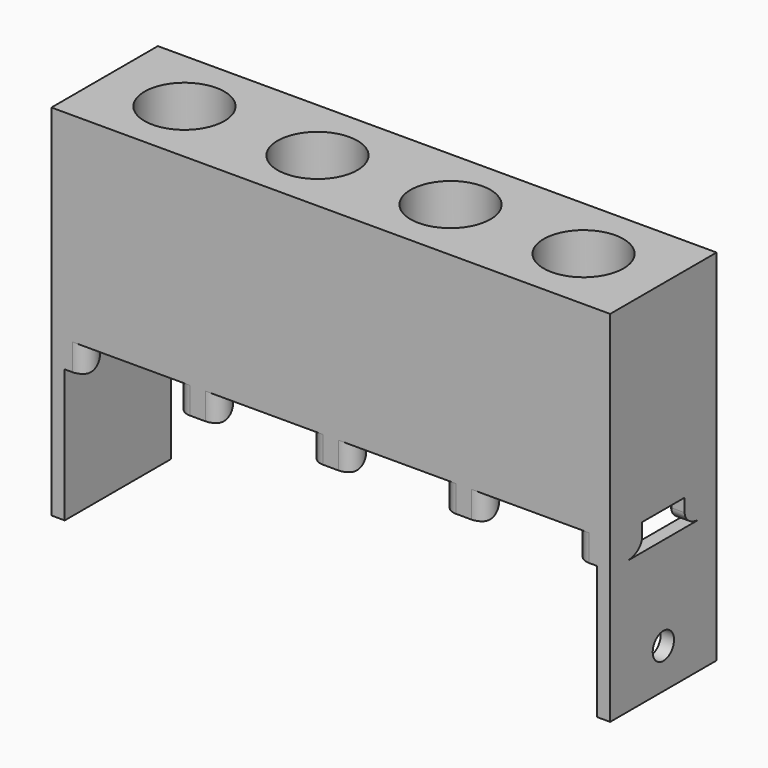
from build123d import *

# Parameters (mm, degrees)
F0_W      = 508
F0_H      = 127
F0_R      = 38.1
F1_DEPTH  = 190.5
F3_DEPTH  = 25.4
F4_R      = 12.7
F5_W      = 127
F5_H      = 127
F6_DEPTH  = 12.7
F7_W      = 127
F7_H      = 127
F8_DEPTH  = 12.7
F9_R      = 12.7
F10_DEPTH = 25.4


with BuildPart() as f1:
    # F0 (on Top) → F1 (new body)
    with BuildSketch(Plane.XY):
        with Locations((254, 63.5)):
            Rectangle(F0_W, F0_H)
        with Locations((63.5, 63.5)):
            Circle(F0_R, mode=Mode.SUBTRACT)
        with Locations((190.5, 63.5)):
            Circle(F0_R, mode=Mode.SUBTRACT)
        with Locations((317.5, 63.5)):
            Circle(F0_R, mode=Mode.SUBTRACT)
        with Locations((444.5, 63.5)):
            Circle(F0_R, mode=Mode.SUBTRACT)
    extrude(amount=-F1_DEPTH)

    # F2 (on face) → F3 (join)
    with BuildSketch(Plane(origin=(0, 0, -190.5), x_dir=(1, 0, 0), z_dir=(0, 0, -1))):
        Polygon((254, 0), (215.9, 0), (254, -38.1), align=None)
        Polygon((254, 0), (254, -38.1), (292.1, 0), align=None)
        Polygon((254, -127), (254, -88.9), (215.9, -127), align=None)
        Polygon((292.1, -127), (254, -88.9), (254, -127), align=None)
        Polygon((127, 0), (127, -38.1), (165.1, 0), align=None)
        Polygon((127, 0), (88.9, 0), (127, -38.1), align=None)
        Polygon((127, -88.9), (88.9, -127), (127, -127), align=None)
        Polygon((165.1, -127), (127, -88.9), (127, -127), align=None)
        Polygon((0, -38.1), (38.1, 0), (0, 0), align=None)
        Polygon((38.1, -127), (0, -88.9), (0, -127), align=None)
        Polygon((381, 0), (342.9, 0), (381, -38.1), align=None)
        Polygon((381, 0), (381, -38.1), (419.1, 0), align=None)
        Polygon((508, 0), (469.9, 0), (508, -38.1), align=None)
        Polygon((508, -88.9), (469.9, -127), (508, -127), align=None)
        Polygon((381, -88.9), (342.9, -127), (381, -127), align=None)
        Polygon((419.1, -127), (381, -88.9), (381, -127), align=None)
    extrude(amount=F3_DEPTH)

    # F4
    f4_edges = [f1.edges().sort_by_distance(p)[0] for p in [
        (400.05, 19.05, -215.9),
        (361.95, 19.05, -215.9),
        (488.95, 19.05, -215.9),
        (488.95, 107.95, -215.9),
        (400.05, 107.95, -215.9),
        (361.95, 107.95, -215.9),
        (273.05, 19.05, -215.9),
        (273.05, 107.95, -215.9),
        (234.95, 107.95, -215.9),
        (234.95, 19.05, -215.9),
        (146.05, 19.05, -215.9),
        (107.95, 19.05, -215.9),
        (107.95, 107.95, -215.9),
        (146.05, 107.95, -215.9),
        (19.05, 19.05, -215.9),
        (19.05, 107.95, -215.9),
        (292.1, 0, -203.2),
        (215.9, 0, -203.2),
        (292.1, 127, -203.2),
        (215.9, 127, -203.2),
        (342.9, 127, -203.2),
        (419.1, 127, -203.2),
        (469.9, 127, -203.2),
        (469.9, 0, -203.2),
        (419.1, 0, -203.2),
        (342.9, 0, -203.2),
        (88.9, 0, -203.2),
        (165.1, 0, -203.2),
        (88.9, 127, -203.2),
        (165.1, 127, -203.2),
        (38.1, 127, -203.2),
        (38.1, 0, -203.2),
    ]]
    fillet(f4_edges, radius=F4_R)

    # F5 (on face) → F6 (join)
    with BuildSketch(Plane.YZ.offset(508)):
        with Locations((63.5, -279.4)):
            Rectangle(F5_W, F5_H)
        with BuildLine():
            Line((106.8605122421, -215.9), (127, -215.9))
            Line((127, -215.9), (127, 0))
            Line((127, 0), (0, 0))
            Line((0, 0), (0, -215.9))
            Line((0, -215.9), (20.1394877579, -215.9))
            add(Edge.make_bspline(
                [(20.1394877579, -215.9), (38.1, -215.9), (38.1, -203.2)],
                knots=[4.7123889804, 4.7123889804, 4.7123889804, 6.2831853072, 6.2831853072, 6.2831853072], degree=2, weights=[1, 0.7071067812, 1]))
            Line((38.1, -203.2), (38.1, -190.5))
            Line((38.1, -190.5), (88.9, -190.5))
            Line((88.9, -190.5), (88.9, -203.2))
            add(Edge.make_bspline(
                [(88.9, -203.2), (88.9, -215.9), (106.8605122421, -215.9)],
                knots=[3.1415926536, 3.1415926536, 3.1415926536, 4.7123889804, 4.7123889804, 4.7123889804], degree=2, weights=[1, 0.7071067812, 1]))
        make_face()
    extrude(amount=F6_DEPTH)

    # F7 (on face) → F8 (join)
    with BuildSketch(Plane(origin=(0, 0, 0), x_dir=(0, -1, 0), z_dir=(-1, 0, 0))):
        with Locations((-63.5, -279.4)):
            Rectangle(F7_W, F7_H)
        with BuildLine():
            Line((-20.1394877579, -215.9), (0, -215.9))
            Line((0, -215.9), (0, 0))
            Line((0, 0), (-127, 0))
            Line((-127, 0), (-127, -215.9))
            Line((-127, -215.9), (-106.8605122421, -215.9))
            add(Edge.make_bspline(
                [(-106.8605122421, -215.9), (-88.9, -215.9), (-88.9, -203.2)],
                knots=[4.7123889804, 4.7123889804, 4.7123889804, 6.2831853072, 6.2831853072, 6.2831853072], degree=2, weights=[1, 0.7071067812, 1]))
            Line((-88.9, -203.2), (-88.9, -190.5))
            Line((-88.9, -190.5), (-38.1, -190.5))
            Line((-38.1, -190.5), (-38.1, -203.2))
            add(Edge.make_bspline(
                [(-38.1, -203.2), (-38.1, -215.9), (-20.1394877579, -215.9)],
                knots=[3.1415926536, 3.1415926536, 3.1415926536, 4.7123889804, 4.7123889804, 4.7123889804], degree=2, weights=[1, 0.7071067812, 1]))
        make_face()
    extrude(amount=F8_DEPTH)

    # F9 (on face) → F10 (cut)
    with BuildSketch(Plane.YZ.offset(520.7)):
        with Locations((63.5, -304.8)):
            Circle(F9_R)
    extrude(amount=-F10_DEPTH, mode=Mode.SUBTRACT)


solid = f1.part
